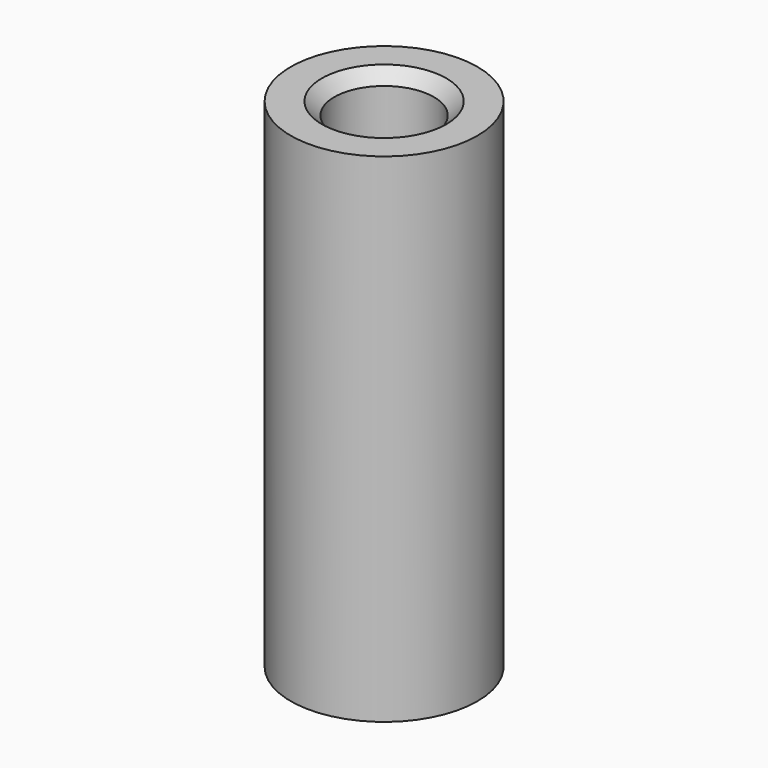
from build123d import *

# Parameters (mm, degrees)
SKETCH_R        = 7.5
SKETCH_R_2      = 4
PAD_DEPTH       = 20
SKETCH001_R     = 7.5
SKETCH001_R_2   = 5.7
PAD001_DEPTH    = 20
CHAMFER_SIZE    = 1
CHAMFER001_SIZE = 1
SKETCH002_R     = 5.75
SKETCH002_R_2   = 4.75
PAD002_DEPTH    = 4
CHAMFER002_SIZE = 0.5


with BuildPart() as part:
    # Sketch → Pad (new body)
    with BuildSketch(Plane.XY):
        Circle(SKETCH_R)
        Circle(SKETCH_R_2, mode=Mode.SUBTRACT)
    extrude(amount=PAD_DEPTH)

    # Sketch001 → Pad001 (join)
    with BuildSketch(Plane.XY):
        Circle(SKETCH001_R)
        Circle(SKETCH001_R_2, mode=Mode.SUBTRACT)
    extrude(amount=-PAD001_DEPTH)

    # Chamfer
    chamfer_edges = [part.edges().sort_by_distance(p)[0] for p in [
        (-4, 0, 20),
    ]]
    chamfer(chamfer_edges, length=CHAMFER_SIZE)

    # Chamfer001
    chamfer001_edges = [part.edges().sort_by_distance(p)[0] for p in [
        (-5.7, 0, -20),
    ]]
    chamfer(chamfer001_edges, length=CHAMFER001_SIZE)

    # Sketch002 (on Face6 of Chamfer001) → Pad002 (join)
    with BuildSketch(Plane(origin=(0, 0, 0), x_dir=(1, 0, 0), z_dir=(0, 0, -1))):
        Circle(SKETCH002_R)
        Circle(SKETCH002_R_2, mode=Mode.SUBTRACT)
    extrude(amount=PAD002_DEPTH)

    # Chamfer002
    chamfer002_edges = [part.edges().sort_by_distance(p)[0] for p in [
        (-4.75, 0, -4),
    ]]
    chamfer(chamfer002_edges, length=CHAMFER002_SIZE)


solid = part.part
